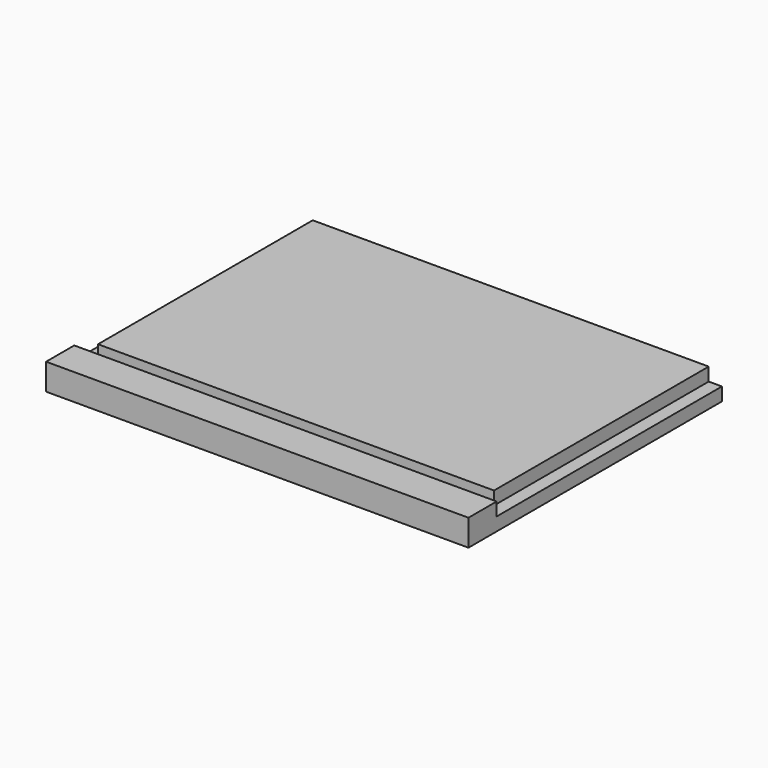
from build123d import *

# Parameters (mm, degrees)
F0_W     = 304.8
F0_H     = 228.6
F1_DEPTH = 19.05
F3_DEPTH = 9.525
F4_W     = 193.675
F4_H     = 19.05
F5_DEPTH = 9.525
F6_W     = 193.675
F6_H     = 19.05
F7_DEPTH = 9.525


with BuildPart() as f1:
    # F0 (on Top) → F1 (new body)
    with BuildSketch(Plane.XY):
        Rectangle(F0_W, F0_H)
    extrude(amount=F1_DEPTH)

    # F2 (on face) → F3 (cut)
    with BuildSketch(Plane.XY.offset(19.05)):
        Polygon((188.140169, -88.9), (188.140169, -79.375), (-188.140169, -79.375), (-188.140169, -88.9), (0, -88.9), align=None)
    extrude(amount=-F3_DEPTH, mode=Mode.SUBTRACT)

    # F4 (on face) → F5 (cut)
    with BuildSketch(Plane(origin=(-152.4, 0, 0), x_dir=(0, -1, 0), z_dir=(-1, 0, 0))):
        with Locations((-17.4625, 19.05)):
            Rectangle(F4_W, F4_H)
    extrude(amount=-F5_DEPTH, mode=Mode.SUBTRACT)

    # F6 (on face) → F7 (cut)
    with BuildSketch(Plane.YZ.offset(152.4)):
        with Locations((17.4625, 19.05)):
            Rectangle(F6_W, F6_H)
    extrude(amount=-F7_DEPTH, mode=Mode.SUBTRACT)


solid = f1.part
